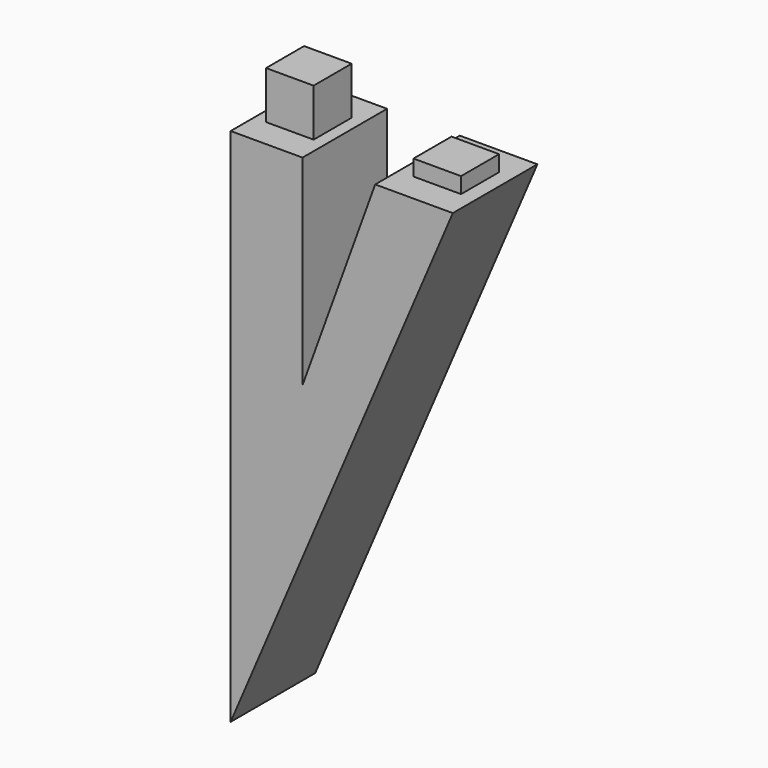
from build123d import *

# Parameters (mm, degrees)
F1_DEPTH = 10
F2_W     = 4.5
F2_H     = 4.5
F3_DEPTH = 4.5
F4_W     = 4.5
F4_H     = 4.5
F5_DEPTH = 1.5


with BuildPart() as f1:
    # F0 (on Front) → F1 (new body)
    with BuildSketch(Plane.XZ):
        Polygon((6.8, 0), (0, 0), (0, -49.2), (21.014519, 0), (13.674519, 0), (6.8, -18.95), align=None)
    extrude(amount=F1_DEPTH)

    # F2 (on face) → F3 (join)
    with BuildSketch(Plane.XY):
        with Locations((3.4, -5)):
            Rectangle(F2_W, F2_H)
    extrude(amount=F3_DEPTH)

    # F4 (on face) → F5 (join)
    with BuildSketch(Plane.XY):
        with Locations((17.344519, -5)):
            Rectangle(F4_W, F4_H)
    extrude(amount=F5_DEPTH)


solid = f1.part
